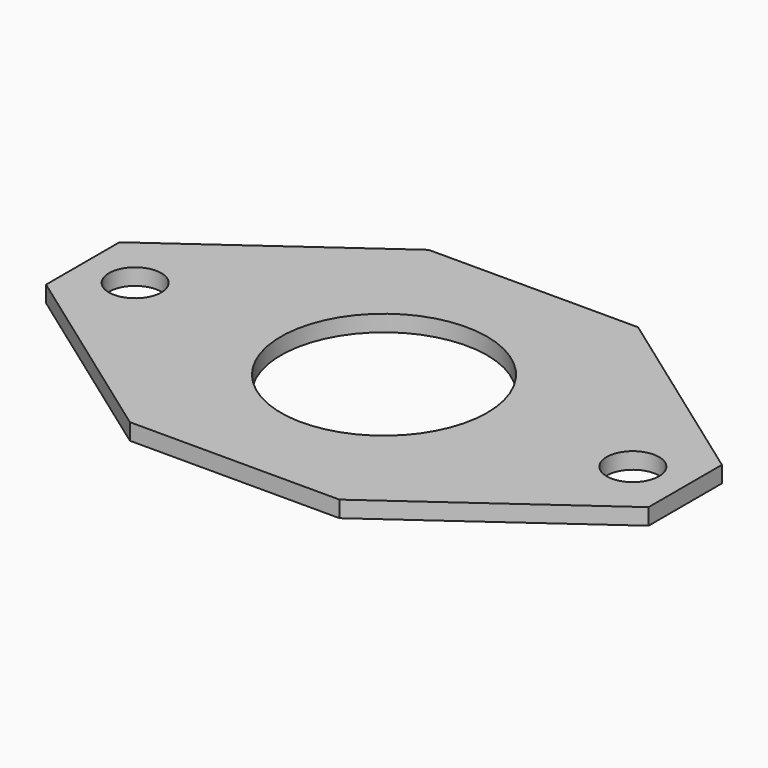
from build123d import *

# Parameters (mm, degrees)
F0_R     = 8
F0_R_2   = 31.5
F1_DEPTH = 5


with BuildPart() as f1:
    # F0 (on Top) → F1 (new body)
    with BuildSketch(Plane.XY):
        Polygon((0, 43), (60, 0), (124, 0), (184, 43), (184, 71), (124, 114), (60, 114), (0, 71), align=None)
        with Locations((16, 57)):
            Circle(F0_R, mode=Mode.SUBTRACT)
        with Locations((92, 57)):
            Circle(F0_R_2, mode=Mode.SUBTRACT)
        with Locations((168, 57)):
            Circle(F0_R, mode=Mode.SUBTRACT)
    extrude(amount=F1_DEPTH)


solid = f1.part
